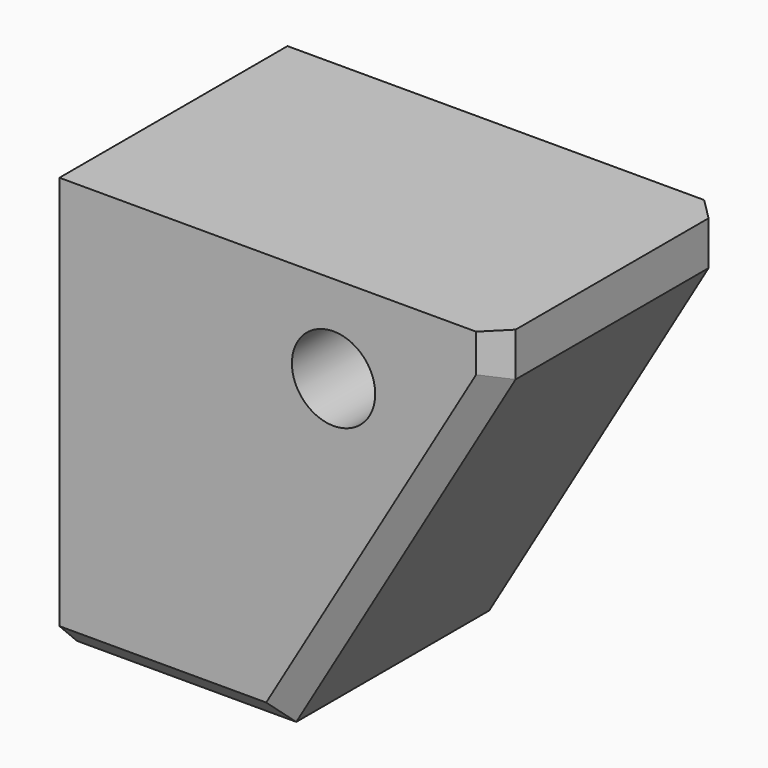
from build123d import *

# Parameters (mm, degrees)
CYLINDER010_R                               = 1.9
CYLINDER010_DEPTH                           = 14
BOX015_W                                    = 20
BOX015_H                                    = 13
BOX015_DEPTH                                = 19
CHAMFER004013007011015006009007001002_SIZE2 = 10
CHAMFER004013007011015006009007001002_SIZE  = 17
CHAMFER004013007011015006009007001003_SIZE  = 1


with BuildPart() as cylinder010:
    # Cylinder010 → Cylinder010 (new body)
    with BuildSketch(Plane(origin=(22, 7, 12), x_dir=(1, 0, 0), z_dir=(0, -1, 0))):
        Circle(CYLINDER010_R)
    extrude(amount=CYLINDER010_DEPTH)


with BuildPart() as supporter_rf:
    # Box015 → Box015 (new body)
    with BuildSketch(Plane(origin=(9.5, -6.5, -3), x_dir=(1, 0, 0), z_dir=(0, 0, 1))):
        with Locations((10, 6.5)):
            Rectangle(BOX015_W, BOX015_H)
    extrude(amount=BOX015_DEPTH)

    # Chamfer004013007011015006009007001002
    chamfer004013007011015006009007001002_edges = [supporter_rf.edges().sort_by_distance(p)[0] for p in [
        (29.5, 0, -3),
    ]]
    chamfer004013007011015006009007001002_side = supporter_rf.faces().sort_by_distance((29.5, 0, 6.5))[0]
    chamfer(chamfer004013007011015006009007001002_edges, length=CHAMFER004013007011015006009007001002_SIZE, length2=CHAMFER004013007011015006009007001002_SIZE2, reference=chamfer004013007011015006009007001002_side)

    # Chamfer004013007011015006009007001003
    chamfer004013007011015006009007001003_edges = [supporter_rf.edges().sort_by_distance(p)[0] for p in [
        (29.5, -6.5, 15),
        (29.5, 6.5, 15),
        (14.5, -6.5, -3),
        (24.5, -6.5, 5.5),
        (24.5, 6.5, 5.5),
        (14.5, 6.5, -3),
    ]]
    chamfer(chamfer004013007011015006009007001003_edges, length=CHAMFER004013007011015006009007001003_SIZE)

    # Cut028006004005011004: cut Cylinder010
    add(cylinder010.part, mode=Mode.SUBTRACT)


solid = supporter_rf.part
